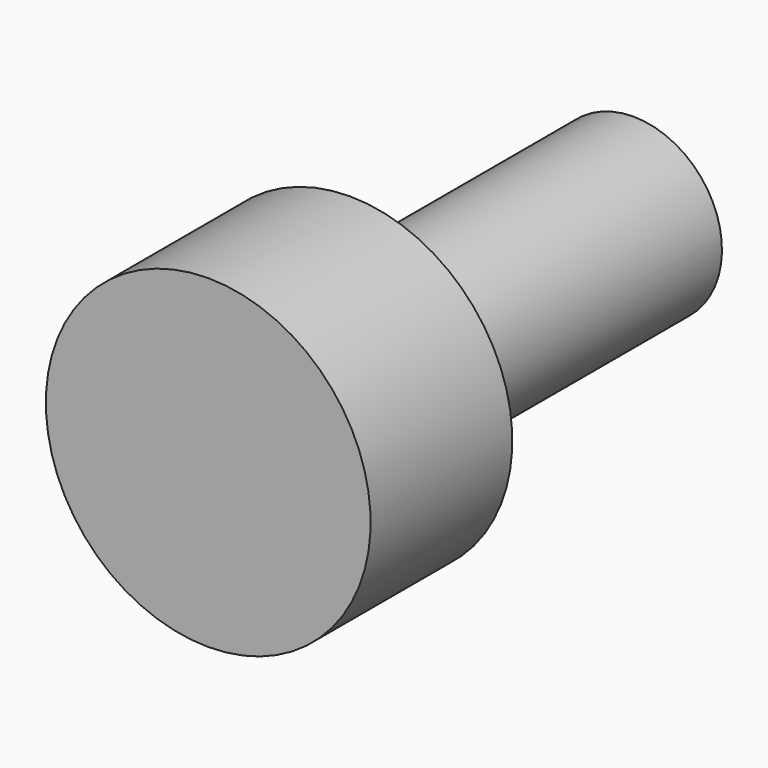
from build123d import *


with BuildPart() as part:
    # Sketch → Revolution (revolve)
    with BuildSketch(Plane.YZ):
        Polygon((-3, 0), (-3, 2.75), (0, 2.75), (0, 1.5), (6, 1.5), (6, 0), align=None)
    revolve(axis=Axis((0, 0, 0), (0, 1, 0)))


solid = part.part
